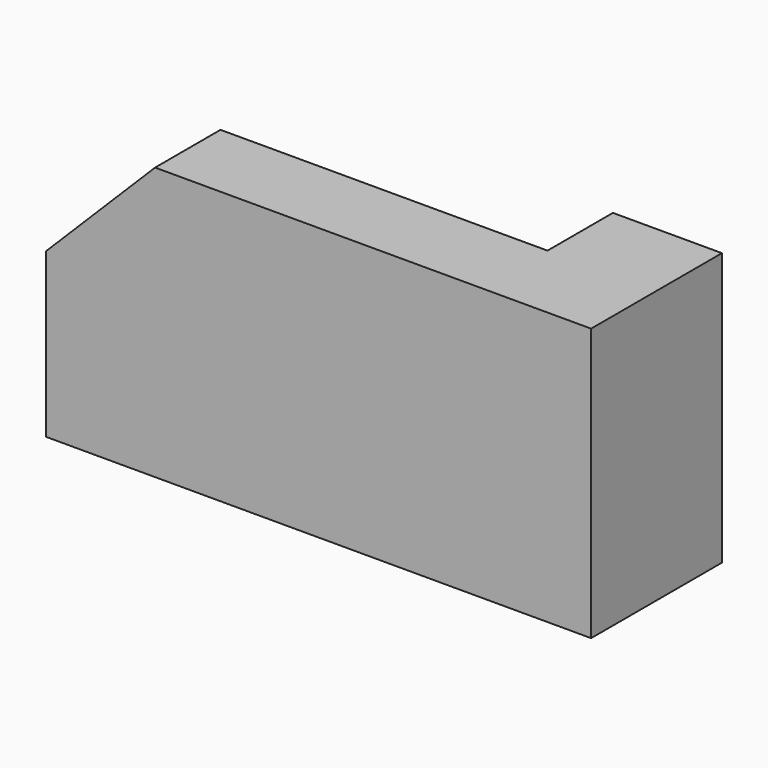
from build123d import *

# Parameters (mm, degrees)
F0_W     = 127
F0_H     = 63.5
F1_DEPTH = 38.1
F3_DEPTH = 50.8
F5_DEPTH = 19.05


with BuildPart() as f1:
    # F0 (on Front) → F1 (new body)
    with BuildSketch(Plane.XZ):
        with Locations((5.649563, -19.189008)):
            Rectangle(F0_W, F0_H)
    extrude(amount=F1_DEPTH)

    # F2 (on Front) → F3 (cut)
    with BuildSketch(Plane.XZ):
        Polygon((-57.850437, -12.839008), (-32.450437, 12.560992), (-61.992485, 12.560992), (-61.992485, -12.82603), align=None)
    extrude(amount=F3_DEPTH, mode=Mode.SUBTRACT)

    # F4 (on Front) → F5 (cut)
    with BuildSketch(Plane.XZ):
        Polygon((-19.750437, -50.939008), (43.749563, 12.560992), (-59.24404, 12.560992), (-59.24404, -50.99874), align=None)
    extrude(amount=F5_DEPTH, mode=Mode.SUBTRACT)


solid = f1.part
